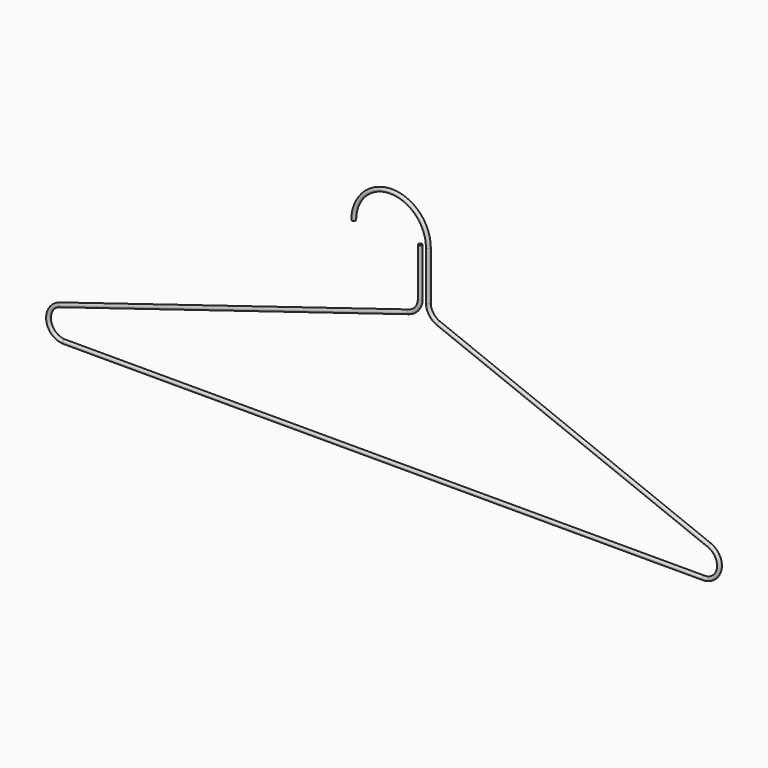
from build123d import *

# Parameters (mm, degrees)
F1_R = 0.762


with BuildPart() as f2:
    # F2: sweep along a path in F0
    with BuildLine(Plane.XZ) as f2_path:
        ThreePointArc((12.832762, 0), (27.786853, 14.954092), (42.740945, 0))
        Line((42.740945, 0), (42.740945, -19.497015))
        ThreePointArc((42.740945, -19.497015), (43.838985, -23.066247), (46.753359, -25.401098))
        Line((46.753359, -25.401098), (155.343152, -68.394727))
        ThreePointArc((155.343152, -68.394727), (159.243091, -75.488678), (153.005567, -80.64881))
        Line((153.005567, -80.64881), (-103.08034, -80.64881))
        ThreePointArc((-103.08034, -80.64881), (-109.359841, -75.242407), (-104.946583, -68.229243))
        Line((-104.946583, -68.229243), (35.026012, -25.19112))
        ThreePointArc((35.026012, -25.19112), (38.267271, -22.894606), (39.50977, -19.121553))
        Line((39.50977, -19.121553), (39.50977, 0))
    # F1 (on Top) → F2 (sweep)
    with BuildSketch(Plane.XY):
        with Locations((12.832762, 0)):
            Circle(F1_R)
    sweep(path=f2_path.line)


solid = f2.part
